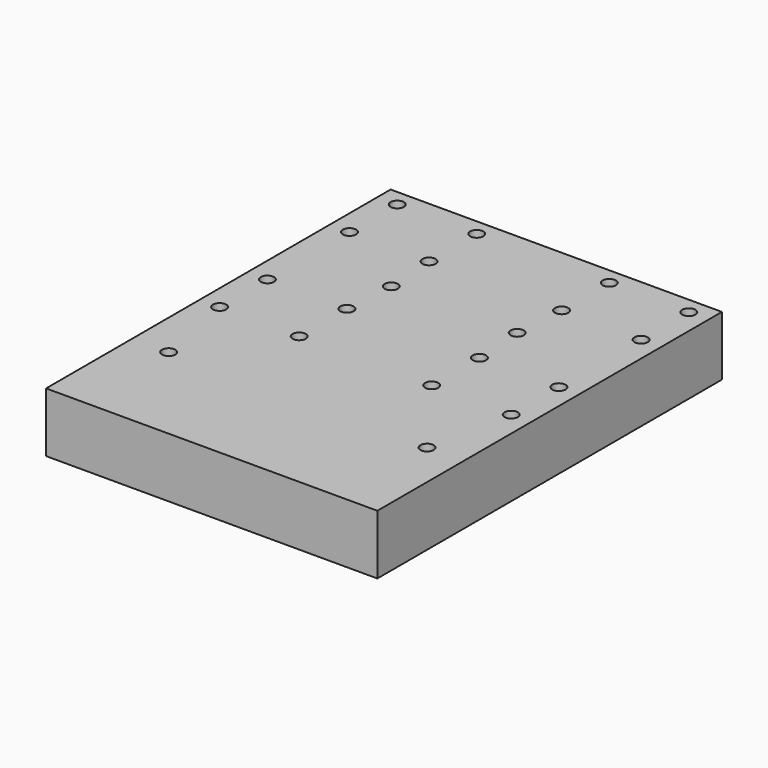
from build123d import *

# Parameters (mm, degrees)
CYLINDER007_R     = 2
CYLINDER007_DEPTH = 25
CYLINDER008_R     = 2
CYLINDER008_DEPTH = 25
CYLINDER006_R     = 2
CYLINDER006_DEPTH = 25
CYLINDER009_R     = 2
CYLINDER009_DEPTH = 25
CYLINDER005_R     = 2
CYLINDER005_DEPTH = 25
CYLINDER002_R     = 2
CYLINDER002_DEPTH = 25
CYLINDER001_R     = 2
CYLINDER001_DEPTH = 25
CYLINDER_R        = 2
CYLINDER_DEPTH    = 25
CYLINDER003_R     = 2
CYLINDER003_DEPTH = 25
CYLINDER004_R     = 2
CYLINDER004_DEPTH = 25
BOX_W             = 50
BOX_H             = 130
BOX_DEPTH         = 18


with BuildPart() as cilindro007:
    # Cylinder007 → Cylinder007 (new body)
    with BuildSketch(Plane(origin=(6, 76, 0), x_dir=(1, 0, 0), z_dir=(0, 0, 1))):
        Circle(CYLINDER007_R)
    extrude(amount=CYLINDER007_DEPTH)


with BuildPart() as cilindro008:
    # Cylinder008 → Cylinder008 (new body)
    with BuildSketch(Plane(origin=(30, 58, 0), x_dir=(1, 0, 0), z_dir=(0, 0, 1))):
        Circle(CYLINDER008_R)
    extrude(amount=CYLINDER008_DEPTH)


with BuildPart() as cilindro006:
    # Cylinder006 → Cylinder006 (new body)
    with BuildSketch(Plane(origin=(6, 58, 0), x_dir=(1, 0, 0), z_dir=(0, 0, 1))):
        Circle(CYLINDER006_R)
    extrude(amount=CYLINDER006_DEPTH)


with BuildPart() as huecos001:
    # Cylinder009 → Cylinder009 (new body)
    with BuildSketch(Plane(origin=(30, 76, 0), x_dir=(1, 0, 0), z_dir=(0, 0, 1))):
        Circle(CYLINDER009_R)
    extrude(amount=CYLINDER009_DEPTH)

    # Fusion001: union Cilindro007, Cilindro008, Cilindro006
    add(cilindro007.part)
    add(cilindro008.part)
    add(cilindro006.part)


with BuildPart() as huecos001_1:
    # Fusion001 placement: moved
    add(huecos001.part.moved(Location((0, 49, 0))))


with BuildPart() as cilindro005:
    # Cylinder005 → Cylinder005 (new body)
    with BuildSketch(Plane(origin=(31, 91.5, 0), x_dir=(1, 0, 0), z_dir=(0, 0, 1))):
        Circle(CYLINDER005_R)
    extrude(amount=CYLINDER005_DEPTH)


with BuildPart() as cilindro002:
    # Cylinder002 → Cylinder002 (new body)
    with BuildSketch(Plane(origin=(6, 76, 0), x_dir=(1, 0, 0), z_dir=(0, 0, 1))):
        Circle(CYLINDER002_R)
    extrude(amount=CYLINDER002_DEPTH)


with BuildPart() as cilindro001:
    # Cylinder001 → Cylinder001 (new body)
    with BuildSketch(Plane(origin=(30, 58, 0), x_dir=(1, 0, 0), z_dir=(0, 0, 1))):
        Circle(CYLINDER001_R)
    extrude(amount=CYLINDER001_DEPTH)


with BuildPart() as cilindro:
    # Cylinder → Cylinder (new body)
    with BuildSketch(Plane(origin=(6, 58, 0), x_dir=(1, 0, 0), z_dir=(0, 0, 1))):
        Circle(CYLINDER_R)
    extrude(amount=CYLINDER_DEPTH)


with BuildPart() as huecos:
    # Cylinder003 → Cylinder003 (new body)
    with BuildSketch(Plane(origin=(30, 76, 0), x_dir=(1, 0, 0), z_dir=(0, 0, 1))):
        Circle(CYLINDER003_R)
    extrude(amount=CYLINDER003_DEPTH)

    # Fusion: union Cilindro002, Cilindro001, Cilindro
    add(cilindro002.part)
    add(cilindro001.part)
    add(cilindro.part)


with BuildPart() as cilindro004:
    # Cylinder004 → Cylinder004 (new body)
    with BuildSketch(Plane(origin=(11, 32.5, 0), x_dir=(1, 0, 0), z_dir=(0, 0, 1))):
        Circle(CYLINDER004_R)
    extrude(amount=CYLINDER004_DEPTH)


with BuildPart() as izquierda:
    # Box → Box (new body)
    with BuildSketch(Plane.XY):
        with Locations((25, 65)):
            Rectangle(BOX_W, BOX_H)
    extrude(amount=BOX_DEPTH)

    # Cut: cut Cilindro004
    add(cilindro004.part, mode=Mode.SUBTRACT)

    # Cut001: cut Huecos
    add(huecos.part, mode=Mode.SUBTRACT)

    # Cut002: cut Cilindro005
    add(cilindro005.part, mode=Mode.SUBTRACT)

    # Cut003: cut Huecos001
    add(huecos001_1.part, mode=Mode.SUBTRACT)


with BuildPart() as fusion002:
    # mirror: instance of Izquierda
    add(izquierda.part.mirror(Plane(origin=(50, 0, 0.197234), x_dir=(0, -1, 0), z_dir=(1, 0, 0))))

    # Fusion002: union Izquierda
    add(izquierda.part)


solid = fusion002.part
